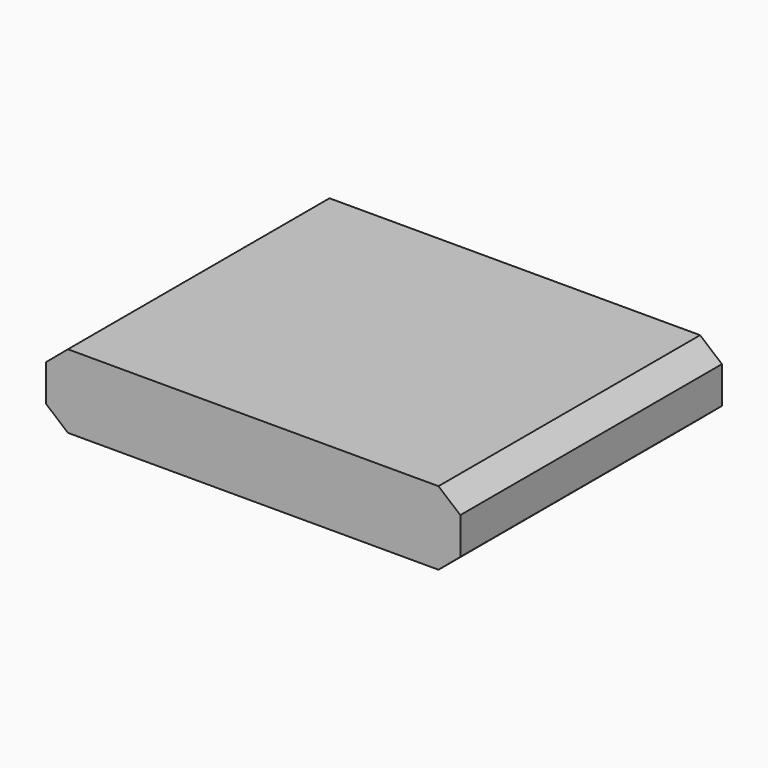
from build123d import *

# Parameters (mm, degrees)
F0_W     = 152
F0_H     = 120
F1_DEPTH = 27
F3_DEPTH = 120.001


with BuildPart() as f1:
    # F0 (on Top) → F1 (new body)
    with BuildSketch(Plane.XY):
        Rectangle(F0_W, F0_H)
    extrude(amount=F1_DEPTH)

    # F2 (on face) → F3 (cut, through all)
    with BuildSketch(Plane(origin=(0, 60, 0), x_dir=(-1, 0, 0), z_dir=(0, 1, 0))):
        Polygon((-76, 20.25), (-68, 27), (-76, 27), align=None)
        Polygon((-76, 0), (-68, 0), (-76, 6.75), align=None)
        Polygon((76, 6.75), (68, 0), (76, 0), align=None)
        Polygon((76, 27), (68, 27), (76, 20.25), align=None)
    extrude(amount=-F3_DEPTH, mode=Mode.SUBTRACT)


solid = f1.part
